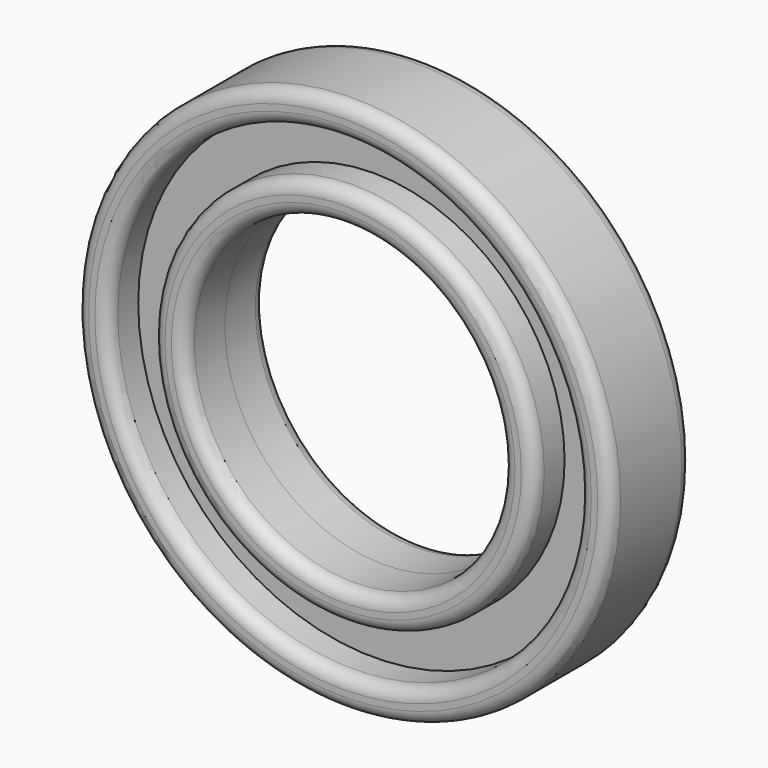
from build123d import *

# Parameters (mm, degrees)
F0_R          = 21
F0_R_2        = 18.5
F1_DEPTH      = 4
F1_DEPTH_BACK = 4
F2_R          = 15
F2_R_2        = 12.5
F3_DEPTH      = 4
F3_DEPTH_BACK = 4
F5_R          = 1
F5_2_R        = 1
F6_R          = 19.437765
F6_R_2        = 14.138437
F7_DEPTH      = 1
F7_DEPTH_BACK = 1


with BuildPart() as f1:
    # F0 (on Front) → F1 (new body, two sides)
    with BuildSketch(Plane.XZ) as f1_sk:
        Circle(F0_R)
        Circle(F0_R_2, mode=Mode.SUBTRACT)
    extrude(amount=F1_DEPTH)
    extrude(f1_sk.sketch, amount=-F1_DEPTH_BACK)

    # F5
    f5_edges = [f1.edges().sort_by_distance(p)[0] for p in [
        (-21, -4, 0),
        (-21, 4, 0),
        (-18.5, 4, 0),
        (-18.5, -4, 0),
    ]]
    fillet(f5_edges, radius=F5_R)


with BuildPart() as f3:
    # F2 (on Front) → F3 (new body, two sides)
    with BuildSketch(Plane.XZ) as f3_sk:
        Circle(F2_R)
        Circle(F2_R_2, mode=Mode.SUBTRACT)
    extrude(amount=F3_DEPTH)
    extrude(f3_sk.sketch, amount=-F3_DEPTH_BACK)

    # F5#2
    f5_2_edges = [f3.edges().sort_by_distance(p)[0] for p in [
        (-12.5, -4, 0),
        (-15, -4, 0),
        (-12.5, 4, 0),
        (-15, 4, 0),
    ]]
    fillet(f5_2_edges, radius=F5_2_R)


with BuildPart() as f7:
    # F6 (on offset) → F7 (new body, two sides)
    with BuildSketch(Plane.XZ) as f7_sk:
        Circle(F6_R)
        Circle(F6_R_2, mode=Mode.SUBTRACT)
    extrude(amount=F7_DEPTH)
    extrude(f7_sk.sketch, amount=-F7_DEPTH_BACK)


solid = Compound([f1.part, f3.part, f7.part])
